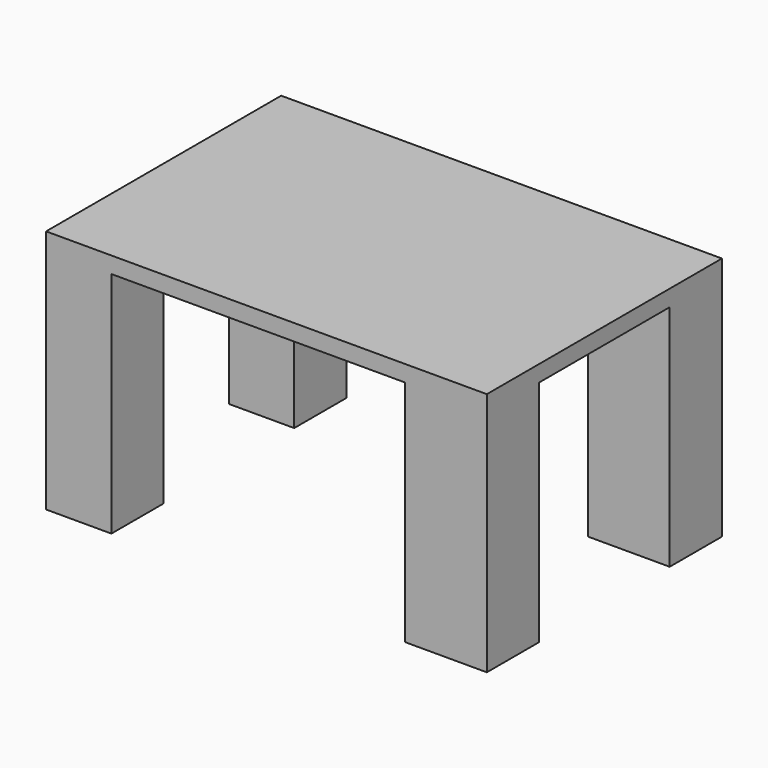
from build123d import *

# Parameters (mm, degrees)
TORUS001_R   = 3.1
BOX_W        = 135
BOX_H        = 90
BOX_DEPTH    = 75
POCKET_DEPTH = 70


with BuildPart() as torus001:
    # Torus001 → Torus001 (revolve)
    with BuildSketch(Plane(origin=(-20, 0, 79), x_dir=(1, 0, 0), z_dir=(0, -1, 0))):
        with Locations((35, 0)):
            Circle(TORUS001_R)
    revolve(axis=Axis((-20, 0, 79), (0, 0, 1)))


with BuildPart() as pocket:
    # Box → Box (new body)
    with BuildSketch(Plane.XY):
        with Locations((67.5, 45)):
            Rectangle(BOX_W, BOX_H)
    extrude(amount=BOX_DEPTH)

    # Cut001: cut Torus001
    add(torus001.part, mode=Mode.SUBTRACT)


with BuildPart() as pocket_1:
    # Cut001 placement: moved
    add(pocket.part.moved(Location((-65, -45, 3))))

    # Sketch → Pocket (cut)
    with BuildSketch(Plane(origin=(-65, -45, 3), x_dir=(1, 0, 0), z_dir=(0, 0, -1))):
        Polygon((20, 0), (20, -20), (0, -20), (0, -70), (20, -70), (20, -90), (110, -90), (110, -70), (135, -70), (135, -20), (110, -20), (110, 0), align=None)
    extrude(amount=-POCKET_DEPTH, mode=Mode.SUBTRACT)


solid = pocket_1.part
